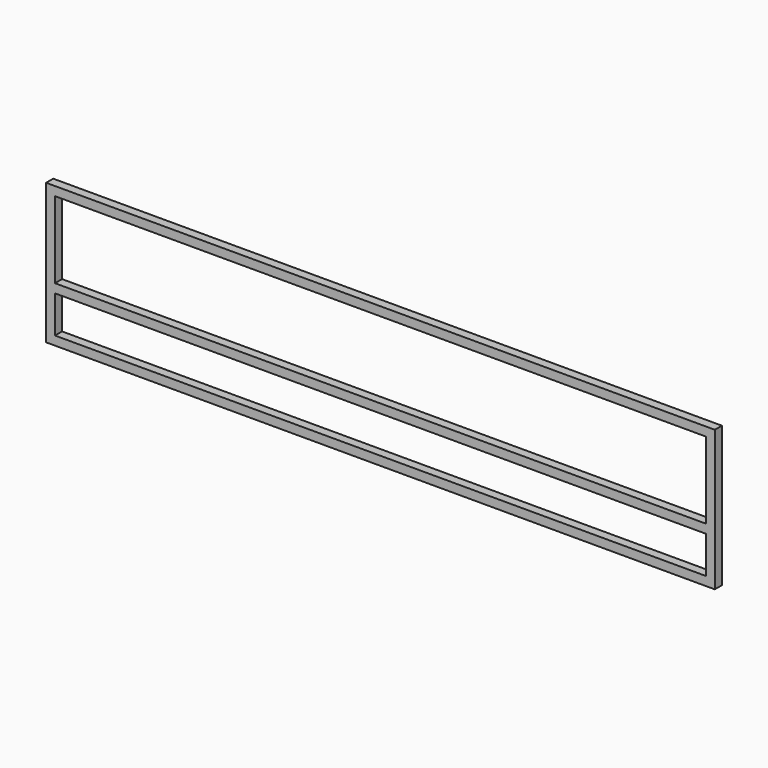
from build123d import *

# Parameters (mm, degrees)
F0_W     = 2387.6
F0_H     = 31.75
F1_DEPTH = 31.75
F2_W     = 31.75
F2_H     = 31.75
F3_DEPTH = 469.9
F4_W     = 31.75
F4_H     = 31.75
F5_DEPTH = 2355.85
F6_W     = 31.75
F6_H     = 31.75
F7_DEPTH = 501.65
F8_W     = 31.75
F8_H     = 31.75
F9_DEPTH = 2336.8


with BuildPart() as f1:
    # F0 (on Front) → F1 (new body)
    with BuildSketch(Plane.XZ):
        Rectangle(F0_W, F0_H)
    extrude(amount=F1_DEPTH)

    # F2 (on face) → F3 (join)
    with BuildSketch(Plane.XY.offset(15.875)):
        with Locations((-1177.925, -15.875)):
            Rectangle(F2_W, F2_H)
    extrude(amount=F3_DEPTH)

    # F4 (on face) → F5 (join)
    with BuildSketch(Plane.YZ.offset(-1162.05)):
        with Locations((-15.875, 469.9)):
            Rectangle(F4_W, F4_H)
    extrude(amount=F5_DEPTH)

    # F6 (on face) → F7 (join)
    with BuildSketch(Plane.XY.offset(485.775)):
        with Locations((1177.925, -15.875)):
            Rectangle(F6_W, F6_H)
    extrude(amount=-F7_DEPTH)

    # F8 (on face) → F9 (join)
    with BuildSketch(Plane.YZ.offset(-1162.05)):
        with Locations((-15.875, 164.438751)):
            Rectangle(F8_W, F8_H)
    extrude(amount=F9_DEPTH)


solid = f1.part
